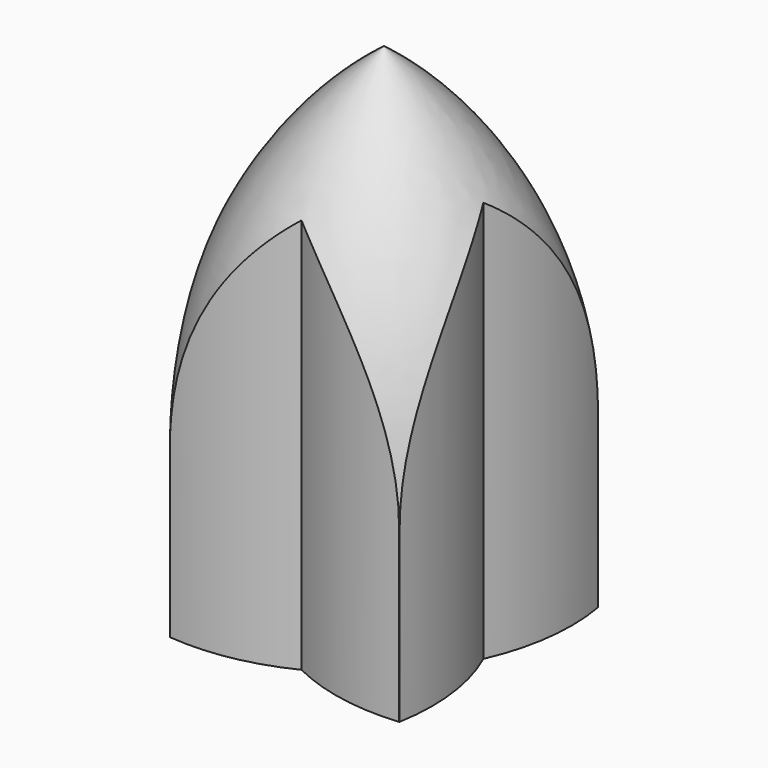
from build123d import *

# Parameters (mm, degrees)
F3_DEPTH = 19.0510001


with BuildPart() as f1:
    # F0 (on Right) → F1 (revolve)
    with BuildSketch(Plane.YZ):
        with BuildLine():
            Line((-6.35, 0), (0, 0))
            Line((0, 0), (0, 19.05))
            ThreePointArc((0, 19.05), (-4.6740316571, 13.4495158286), (-6.35, 6.35))
            Line((-6.35, 6.35), (-6.35, 0))
        make_face()
    revolve(axis=Axis((0, 0, 9.525), (0, 0, 1)))

    # F2 (on face) → F3 (intersect, through all)
    with BuildSketch(Plane(origin=(0, 0, 0), x_dir=(1, 0, 0), z_dir=(0, 0, -1))):
        with BuildLine():
            ThreePointArc((-4.3136475856, -4.6599296676), (-4.3092666737, -4.6639812108), (-4.3048819565, -4.6680286354))
            ThreePointArc((-4.3048819565, -4.6680286354), (-2.0969490938, -4.5722436826), (0, -3.8744279606))
            ThreePointArc((0, -3.8744279606), (-2.2025633044, -2.2612828853), (-3.7323089879, 0))
            ThreePointArc((-3.7323089879, 0), (-4.3735965055, -2.2862242802), (-4.3136475856, -4.6599296676))
        make_face()
        with BuildLine():
            ThreePointArc((-3.7323089879, 0), (-2.2025633044, -2.2612828853), (0, -3.8744279606))
            ThreePointArc((0, -3.8744279606), (2.2025633044, -2.2612828853), (3.7323089879, 0))
            ThreePointArc((3.7323089879, 0), (2.2025633044, 2.2612828853), (0, 3.8744279606))
            ThreePointArc((0, 3.8744279606), (-2.2025633044, 2.2612828853), (-3.7323089879, 0))
        make_face()
        with BuildLine():
            ThreePointArc((0, 3.8744279606), (2.2025633044, 2.2612828853), (3.7323089879, 0))
            ThreePointArc((3.7323089879, 0), (4.3735965055, 2.2862242802), (4.3136475856, 4.6599296676))
            ThreePointArc((4.3136475856, 4.6599296676), (4.3092666737, 4.6639812108), (4.3048819565, 4.6680286354))
            ThreePointArc((4.3048819565, 4.6680286354), (2.0969490938, 4.5722436826), (0, 3.8744279606))
        make_face()
        with BuildLine():
            ThreePointArc((3.7323089879, 0), (2.2025633044, -2.2612828853), (0, -3.8744279606))
            ThreePointArc((0, -3.8744279606), (2.0969490938, -4.5722436826), (4.3048819565, -4.6680286354))
            ThreePointArc((4.3048819565, -4.6680286354), (4.3092666737, -4.6639812108), (4.3136475856, -4.6599296676))
            ThreePointArc((4.3136475856, -4.6599296676), (4.3735965055, -2.2862242802), (3.7323089879, 0))
        make_face()
        with BuildLine():
            ThreePointArc((-3.7323089879, 0), (-2.2025633044, -2.2612828853), (0, -3.8744279606))
            ThreePointArc((0, -3.8744279606), (2.2025633044, -2.2612828853), (3.7323089879, 0))
            ThreePointArc((3.7323089879, 0), (2.2025633044, 2.2612828853), (0, 3.8744279606))
            ThreePointArc((0, 3.8744279606), (-2.2025633044, 2.2612828853), (-3.7323089879, 0))
        make_face()
        with BuildLine():
            ThreePointArc((-4.3136475856, 4.6599296676), (-4.3735965055, 2.2862242802), (-3.7323089879, 0))
            ThreePointArc((-3.7323089879, 0), (-2.2025633044, 2.2612828853), (0, 3.8744279606))
            ThreePointArc((0, 3.8744279606), (-2.0969490938, 4.5722436826), (-4.3048819565, 4.6680286354))
            ThreePointArc((-4.3048819565, 4.6680286354), (-4.3092666737, 4.6639812108), (-4.3136475856, 4.6599296676))
        make_face()
        with BuildLine():
            ThreePointArc((0, 3.8744279606), (2.2025633044, 2.2612828853), (3.7323089879, 0))
            ThreePointArc((3.7323089879, 0), (4.3735965055, 2.2862242802), (4.3136475856, 4.6599296676))
            ThreePointArc((4.3136475856, 4.6599296676), (4.3092666737, 4.6639812108), (4.3048819565, 4.6680286354))
            ThreePointArc((4.3048819565, 4.6680286354), (2.0969490938, 4.5722436826), (0, 3.8744279606))
        make_face()
        with BuildLine():
            ThreePointArc((-3.7323089879, 0), (-2.2025633044, -2.2612828853), (0, -3.8744279606))
            ThreePointArc((0, -3.8744279606), (2.2025633044, -2.2612828853), (3.7323089879, 0))
            ThreePointArc((3.7323089879, 0), (2.2025633044, 2.2612828853), (0, 3.8744279606))
            ThreePointArc((0, 3.8744279606), (-2.2025633044, 2.2612828853), (-3.7323089879, 0))
        make_face()
        with BuildLine():
            ThreePointArc((-4.3136475856, -4.6599296676), (-4.3092666737, -4.6639812108), (-4.3048819565, -4.6680286354))
            ThreePointArc((-4.3048819565, -4.6680286354), (-2.0969490938, -4.5722436826), (0, -3.8744279606))
            ThreePointArc((0, -3.8744279606), (-2.2025633044, -2.2612828853), (-3.7323089879, 0))
            ThreePointArc((-3.7323089879, 0), (-4.3735965055, -2.2862242802), (-4.3136475856, -4.6599296676))
        make_face()
        with BuildLine():
            ThreePointArc((-4.3136475856, 4.6599296676), (-4.3735965055, 2.2862242802), (-3.7323089879, 0))
            ThreePointArc((-3.7323089879, 0), (-2.2025633044, 2.2612828853), (0, 3.8744279606))
            ThreePointArc((0, 3.8744279606), (-2.0969490938, 4.5722436826), (-4.3048819565, 4.6680286354))
            ThreePointArc((-4.3048819565, 4.6680286354), (-4.3092666737, 4.6639812108), (-4.3136475856, 4.6599296676))
        make_face()
        with BuildLine():
            ThreePointArc((-3.7323089879, 0), (-2.2025633044, -2.2612828853), (0, -3.8744279606))
            ThreePointArc((0, -3.8744279606), (2.2025633044, -2.2612828853), (3.7323089879, 0))
            ThreePointArc((3.7323089879, 0), (2.2025633044, 2.2612828853), (0, 3.8744279606))
            ThreePointArc((0, 3.8744279606), (-2.2025633044, 2.2612828853), (-3.7323089879, 0))
        make_face()
        with BuildLine():
            ThreePointArc((3.7323089879, 0), (2.2025633044, -2.2612828853), (0, -3.8744279606))
            ThreePointArc((0, -3.8744279606), (2.0969490938, -4.5722436826), (4.3048819565, -4.6680286354))
            ThreePointArc((4.3048819565, -4.6680286354), (4.3092666737, -4.6639812108), (4.3136475856, -4.6599296676))
            ThreePointArc((4.3136475856, -4.6599296676), (4.3735965055, -2.2862242802), (3.7323089879, 0))
        make_face()
    extrude(amount=-F3_DEPTH, mode=Mode.INTERSECT)


solid = f1.part
